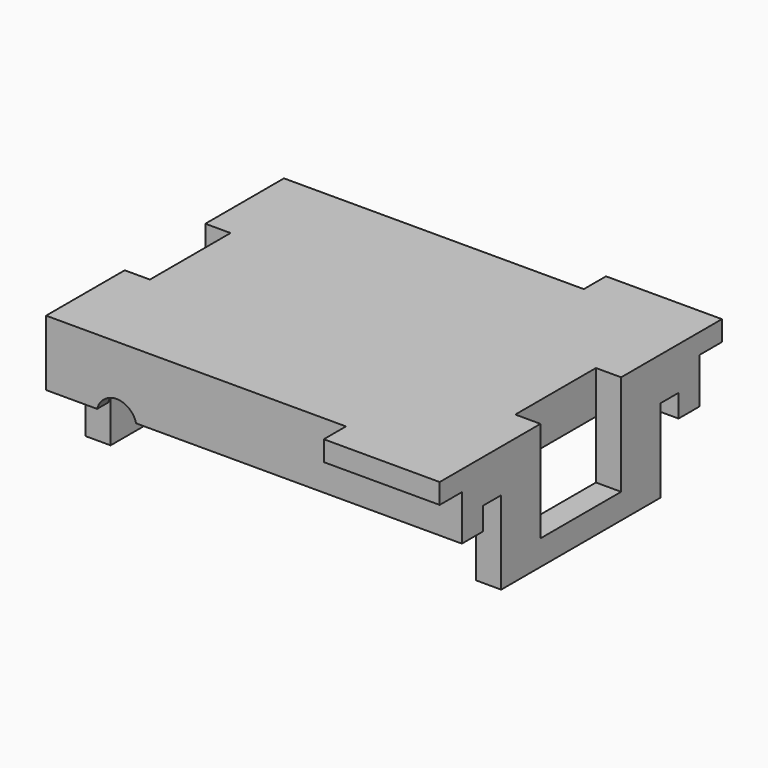
from build123d import *

# Parameters (mm, degrees)
CYLINDER007_R     = 0.8
CYLINDER007_DEPTH = 20
BOX035_W          = 16.5
BOX035_H          = 0.9
BOX035_DEPTH      = 0.9
BOX029_W          = 16.5
BOX029_H          = 0.9
BOX029_DEPTH      = 0.9
BOX032_W          = 16.5
BOX032_H          = 2
BOX032_DEPTH      = 2.4
BOX026_W          = 16.5
BOX026_H          = 2
BOX026_DEPTH      = 2.4
BOX036_W          = 14.5
BOX036_H          = 10.7
BOX036_DEPTH      = 3.3
BOX027_W          = 11.9
BOX027_H          = 1.1
BOX027_DEPTH      = 5
BOX033_W          = 11.9
BOX033_H          = 1.1
BOX033_DEPTH      = 5
BOX028_W          = 4.6
BOX028_H          = 1.1
BOX028_DEPTH      = 4.2
BOX034_W          = 4.6
BOX034_H          = 1.1
BOX034_DEPTH      = 4.2
BOX031_W          = 1
BOX031_H          = 4
BOX031_DEPTH      = 4
BOX030_W          = 1
BOX030_H          = 4
BOX030_DEPTH      = 4
BOX025_W          = 16.5
BOX025_H          = 14
BOX025_DEPTH      = 5


with BuildPart() as cylinder007:
    # Cylinder007 → Cylinder007 (new body)
    with BuildSketch(Plane(origin=(2.8, 10, 2.2), x_dir=(1, 0, 0), z_dir=(0, -1, 0))):
        Circle(CYLINDER007_R)
    extrude(amount=CYLINDER007_DEPTH)


with BuildPart() as cube032:
    # Box035 → Box035 (new body)
    with BuildSketch(Plane(origin=(0, 3.95, 2.4), x_dir=(1, 0, 0), z_dir=(0, 0, 1))):
        with Locations((8.25, 0.45)):
            Rectangle(BOX035_W, BOX035_H)
    extrude(amount=BOX035_DEPTH)


with BuildPart() as compound004:
    # Box029 → Box029 (new body)
    with BuildSketch(Plane(origin=(0, -4.85, 2.4), x_dir=(1, 0, 0), z_dir=(0, 0, 1))):
        with Locations((8.25, 0.45)):
            Rectangle(BOX029_W, BOX029_H)
    extrude(amount=BOX029_DEPTH)

    # Compound004: union Cube032
    add(cube032.part)


with BuildPart() as cube029:
    # Box032 → Box032 (new body)
    with BuildSketch(Plane(origin=(0, -5.95, 0), x_dir=(1, 0, 0), z_dir=(0, 0, 1))):
        with Locations((8.25, 1)):
            Rectangle(BOX032_W, BOX032_H)
    extrude(amount=BOX032_DEPTH)


with BuildPart() as compound005:
    # Box026 → Box026 (new body)
    with BuildSketch(Plane(origin=(0, 3.95, 0), x_dir=(1, 0, 0), z_dir=(0, 0, 1))):
        with Locations((8.25, 1)):
            Rectangle(BOX026_W, BOX026_H)
    extrude(amount=BOX026_DEPTH)

    # Compound005: union Cube029
    add(cube029.part)


with BuildPart() as cube033:
    # Box036 → Box036 (new body)
    with BuildSketch(Plane(origin=(1, -5.35, 0), x_dir=(1, 0, 0), z_dir=(0, 0, 1))):
        with Locations((7.25, 5.35)):
            Rectangle(BOX036_W, BOX036_H)
    extrude(amount=BOX036_DEPTH)


with BuildPart() as cube024:
    # Box027 → Box027 (new body)
    with BuildSketch(Plane(origin=(0, 5.9, 0), x_dir=(1, 0, 0), z_dir=(0, 0, 1))):
        with Locations((5.95, 0.55)):
            Rectangle(BOX027_W, BOX027_H)
    extrude(amount=BOX027_DEPTH)


with BuildPart() as cube030:
    # Box033 → Box033 (new body)
    with BuildSketch(Plane(origin=(0, -7, 0), x_dir=(1, 0, 0), z_dir=(0, 0, 1))):
        with Locations((5.95, 0.55)):
            Rectangle(BOX033_W, BOX033_H)
    extrude(amount=BOX033_DEPTH)


with BuildPart() as cube025:
    # Box028 → Box028 (new body)
    with BuildSketch(Plane(origin=(11.9, -7, 0), x_dir=(1, 0, 0), z_dir=(0, 0, 1))):
        with Locations((2.3, 0.55)):
            Rectangle(BOX028_W, BOX028_H)
    extrude(amount=BOX028_DEPTH)


with BuildPart() as cube031:
    # Box034 → Box034 (new body)
    with BuildSketch(Plane(origin=(11.9, 5.9, 0), x_dir=(1, 0, 0), z_dir=(0, 0, 1))):
        with Locations((2.3, 0.55)):
            Rectangle(BOX034_W, BOX034_H)
    extrude(amount=BOX034_DEPTH)


with BuildPart() as cube028:
    # Box031 → Box031 (new body)
    with BuildSketch(Plane(origin=(0, -2, 1), x_dir=(1, 0, 0), z_dir=(0, 0, 1))):
        with Locations((0.5, 2)):
            Rectangle(BOX031_W, BOX031_H)
    extrude(amount=BOX031_DEPTH)


with BuildPart() as compound003:
    # Box030 → Box030 (new body)
    with BuildSketch(Plane(origin=(15.5, -2, 1), x_dir=(1, 0, 0), z_dir=(0, 0, 1))):
        with Locations((0.5, 2)):
            Rectangle(BOX030_W, BOX030_H)
    extrude(amount=BOX030_DEPTH)

    # Compound003: union Cube028
    add(cube028.part)


with BuildPart() as topcut:
    # Box025 → Box025 (new body)
    with BuildSketch(Plane(origin=(0, -7, 0), x_dir=(1, 0, 0), z_dir=(0, 0, 1))):
        with Locations((8.25, 7)):
            Rectangle(BOX025_W, BOX025_H)
    extrude(amount=BOX025_DEPTH)

    # Cut014: cut Compound003
    add(compound003.part, mode=Mode.SUBTRACT)

    # Cut012: cut Cube031
    add(cube031.part, mode=Mode.SUBTRACT)

    # Cut016: cut Cube025
    add(cube025.part, mode=Mode.SUBTRACT)

    # Cut013: cut Cube030
    add(cube030.part, mode=Mode.SUBTRACT)

    # Cut015: cut Cube024
    add(cube024.part, mode=Mode.SUBTRACT)

    # Cut017: cut Cube033
    add(cube033.part, mode=Mode.SUBTRACT)

    # Cut018: cut Compound005
    add(compound005.part, mode=Mode.SUBTRACT)

    # Cut011: cut Compound004
    add(compound004.part, mode=Mode.SUBTRACT)

    # Cut010: cut Cylinder007
    add(cylinder007.part, mode=Mode.SUBTRACT)


with BuildPart() as topcut_1:
    # Cut010 placement: moved
    add(topcut.part.moved(Location((-8.25, 0, 2.9))))


solid = topcut_1.part
